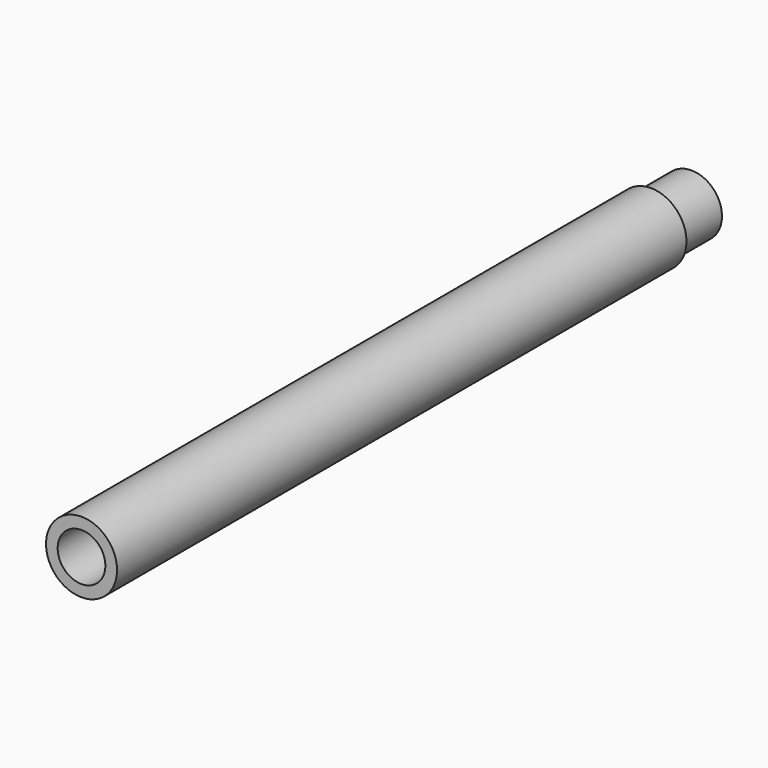
from build123d import *

# Parameters (mm, degrees)
F0_R          = 8.89
F0_R_2        = 5.969
F1_DEPTH      = 178.145186
F1_DEPTH_BACK = 12.7
F2_R          = 8.89
F2_R_2        = 7.62
F3_DEPTH      = 12.7


with BuildPart() as f1:
    # F0 (on Front) → F1 (new body, two sides)
    with BuildSketch(Plane.XZ) as f1_sk:
        Circle(F0_R)
        Circle(F0_R_2, mode=Mode.SUBTRACT)
    extrude(amount=F1_DEPTH)
    extrude(f1_sk.sketch, amount=-F1_DEPTH_BACK)

    # F2 (on face) → F3 (cut)
    with BuildSketch(Plane(origin=(0, 12.7, 0), x_dir=(-1, 0, 0), z_dir=(0, 1, 0))):
        Circle(F2_R)
        Circle(F2_R_2, mode=Mode.SUBTRACT)
    extrude(amount=-F3_DEPTH, mode=Mode.SUBTRACT)


solid = f1.part
